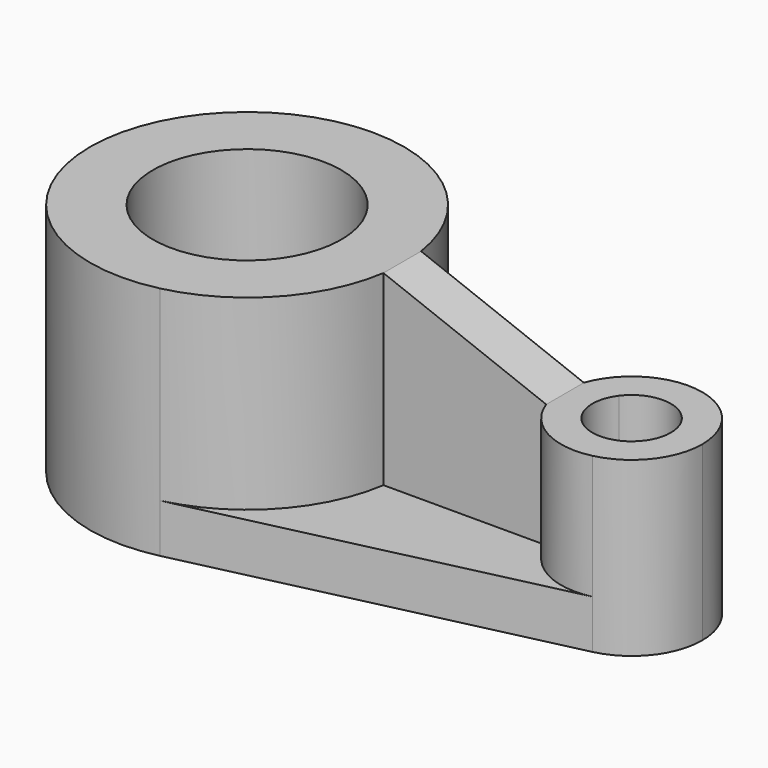
from build123d import *

# Parameters (mm, degrees)
F1_DEPTH = 15
F2_DEPTH = 15
F3_DEPTH = 11
F4_DEPTH = 3.1
F6_DEPTH = 3


with BuildPart() as f1:
    # F0 (on Top) → F1 (new body)
    with BuildSketch(Plane.XY):
        with BuildLine():
            ThreePointArc((9.8868599666, 1.5), (7.3340931671, 6.7978730068), (2.2448979592, 9.744764397))
            ThreePointArc((2.2448979592, 9.744764397), (-10, 0), (2.2448979592, -9.744764397))
            ThreePointArc((2.2448979592, -9.744764397), (7.3340931671, -6.7978730068), (9.8868599666, -1.5))
            Line((9.8868599666, -1.5), (5.8094750193, -1.5))
            ThreePointArc((5.8094750193, -1.5), (-6, 0), (5.8094750193, 1.5))
            Line((5.8094750193, 1.5), (9.8868599666, 1.5))
        make_face()
        with BuildLine():
            ThreePointArc((10, 0), (9.971674876, 0.7521304187), (9.8868599666, 1.5))
            Line((9.8868599666, 1.5), (5.8094750193, 1.5))
            ThreePointArc((5.8094750193, 1.5), (5.9521781776, 0.7560257549), (6, 0))
            ThreePointArc((6, 0), (5.9521781776, -0.7560257549), (5.8094750193, -1.5))
            Line((5.8094750193, -1.5), (9.8868599666, -1.5))
            ThreePointArc((9.8868599666, -1.5), (9.971674876, -0.7521304187), (10, 0))
        make_face()
    extrude(amount=F1_DEPTH)

    # F0 (on Top) → F2 (join)
    with BuildSketch(Plane.XY):
        with BuildLine():
            Line((20.2573593129, 1.5), (9.8868599666, 1.5))
            ThreePointArc((9.8868599666, 1.5), (9.971674876, 0.7521304187), (10, 0))
            ThreePointArc((10, 0), (9.971674876, -0.7521304187), (9.8868599666, -1.5))
            Line((9.8868599666, -1.5), (20.2573593129, -1.5))
            ThreePointArc((20.2573593129, -1.5), (20, 0), (20.2573593129, 1.5))
        make_face()
        with BuildLine():
            Line((22.5, 1.5), (20.2573593129, 1.5))
            ThreePointArc((20.2573593129, 1.5), (20, 0), (20.2573593129, -1.5))
            Line((20.2573593129, -1.5), (22.5, -1.5))
            ThreePointArc((22.5, -1.5), (22, 0), (22.5, 1.5))
        make_face()
    extrude(amount=F2_DEPTH)

    # F0 (on Top) → F3 (join)
    with BuildSketch(Plane.XY):
        with BuildLine():
            ThreePointArc((29, 0), (28.021073584, 2.8021493208), (25.5102040816, 4.3851439786))
            ThreePointArc((25.5102040816, 4.3851439786), (22.3336261757, 3.9442140476), (20.2573593129, 1.5))
            Line((20.2573593129, 1.5), (22.5, 1.5))
            ThreePointArc((22.5, 1.5), (25.290569415, 2.3717082451), (27, 0))
            ThreePointArc((27, 0), (25.290569415, -2.3717082451), (22.5, -1.5))
            Line((22.5, -1.5), (20.2573593129, -1.5))
            ThreePointArc((20.2573593129, -1.5), (22.3336261757, -3.9442140476), (25.5102040816, -4.3851439786))
            ThreePointArc((25.5102040816, -4.3851439786), (28.021073584, -2.8021493208), (29, 0))
        make_face()
    extrude(amount=F3_DEPTH)

    # F0 (on Top) → F4 (join)
    with BuildSketch(Plane.XY):
        with BuildLine():
            ThreePointArc((9.8868599666, -1.5), (7.3340931671, -6.7978730068), (2.2448979592, -9.744764397))
            Line((2.2448979592, -9.744764397), (25.5102040816, -4.3851439786))
            ThreePointArc((25.5102040816, -4.3851439786), (22.3336261757, -3.9442140476), (20.2573593129, -1.5))
            Line((20.2573593129, -1.5), (9.8868599666, -1.5))
        make_face()
        with BuildLine():
            Line((25.5102040816, 4.3851439786), (2.2448979592, 9.744764397))
            ThreePointArc((2.2448979592, 9.744764397), (7.3340931671, 6.7978730068), (9.8868599666, 1.5))
            Line((9.8868599666, 1.5), (20.2573593129, 1.5))
            ThreePointArc((20.2573593129, 1.5), (22.3336261757, 3.9442140476), (25.5102040816, 4.3851439786))
        make_face()
    extrude(amount=F4_DEPTH)

    # F5 (on face) → F6 (cut, through all)
    with BuildSketch(Plane.XZ.offset(1.5)):
        Polygon((22.5, 15), (9.8868599666, 15), (20.2573593129, 11), (22.5, 11), align=None)
    extrude(amount=-F6_DEPTH, mode=Mode.SUBTRACT)


solid = f1.part
